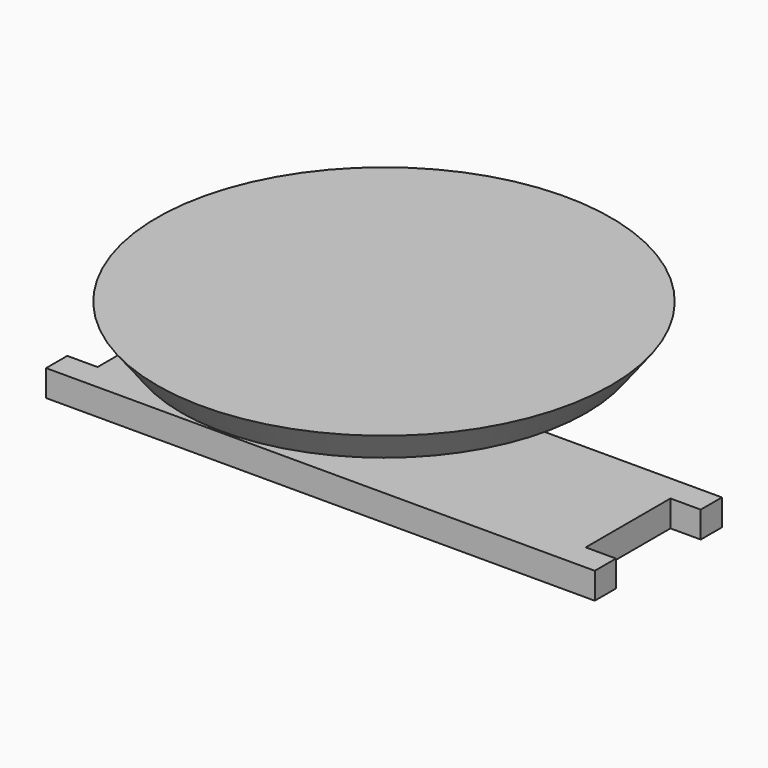
from build123d import *

# Parameters (mm, degrees)
F3_DEPTH = 3


with BuildPart() as f1:
    # F0 (on Front) → F1 (revolve)
    with BuildSketch(Plane.XZ):
        Polygon((0, 16.137294), (0, 12.479508), (23.022542, 12.479508), (25.81967, 16.137294), align=None)
    revolve(axis=Axis((0, 0, 14.308401), (0, 0, -1)))


with BuildPart() as f3:
    # F2 (on Top) → F3 (new body)
    with BuildSketch(Plane.XY):
        Polygon((0, 0), (0, -9.036886), (31.19877, -9.036886), (31.19877, -6.02459), (27.756151, -6.02459), (27.756151, 0), align=None)
        Polygon((-31.19877, -9.036886), (0, -9.036886), (0, 0), (-27.756151, 0), (-27.756151, -6.02459), (-31.19877, -6.02459), align=None)
        Polygon((0, 9.036886), (0, 0), (27.756151, 0), (27.756151, 6.02459), (31.19877, 6.02459), (31.19877, 9.036886), align=None)
        Polygon((-27.756151, 0), (0, 0), (0, 9.036886), (-31.19877, 9.036886), (-31.19877, 6.02459), (-27.756151, 6.02459), align=None)
    extrude(amount=F3_DEPTH)


solid = Compound([f1.part, f3.part])
